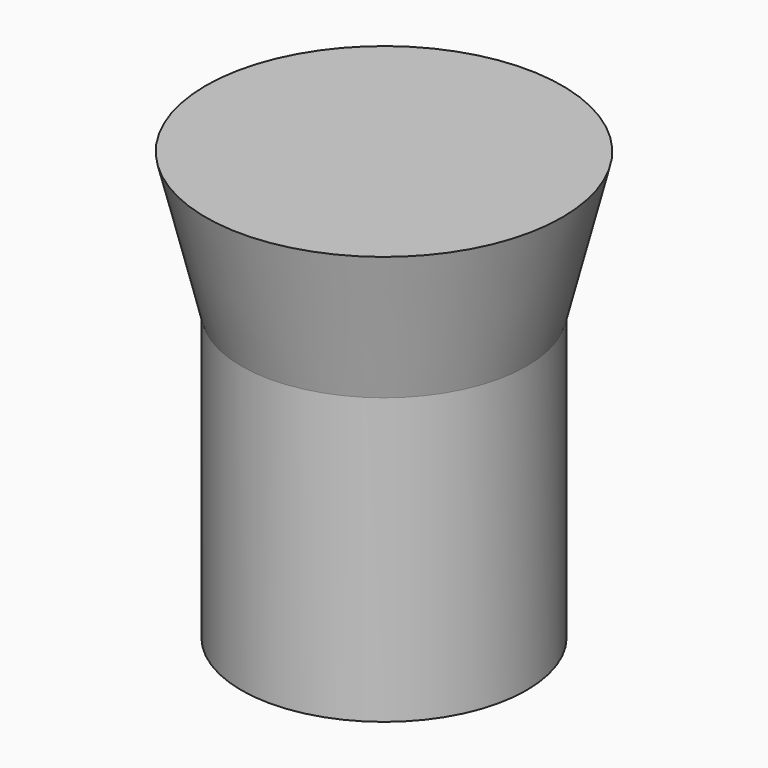
from build123d import *

# Parameters (mm, degrees)
F0_R      = 20
F1_DEPTH  = 40
F3_R      = 25
F1_FACE_R = 20


with BuildPart() as f1:
    # F0 (on Top) → F1 (new body)
    with BuildSketch(Plane.XY):
        Circle(F0_R)
    extrude(amount=F1_DEPTH)

    # F3 (on offset) → F4 section 0
    with BuildSketch(Plane.XY.offset(60)):
        Circle(F3_R)
    # F1_face (on face) → F4 section 1
    with BuildSketch(Plane.XY.offset(40)):
        Circle(F1_FACE_R)
    loft()


solid = f1.part
